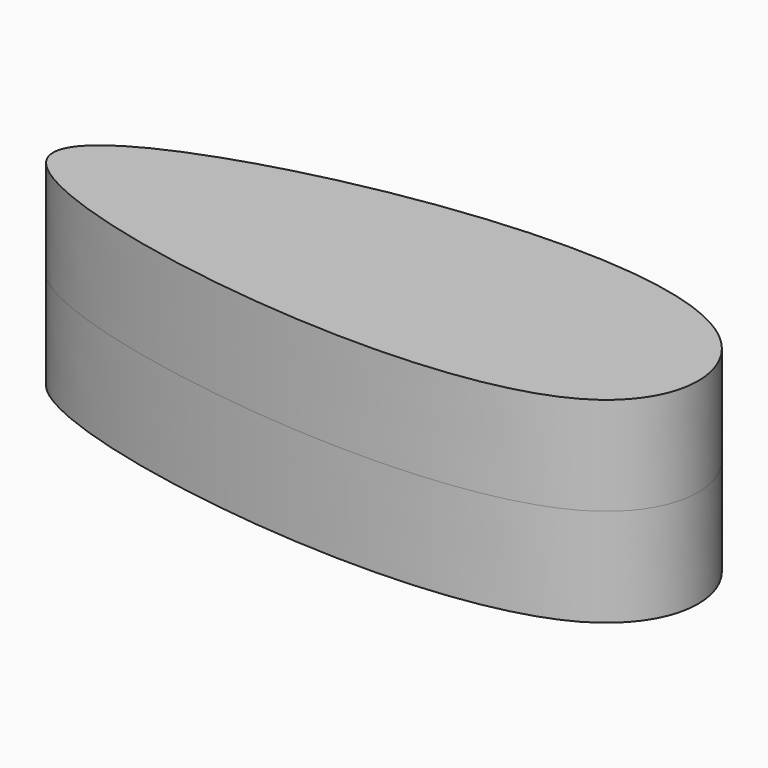
from build123d import *

# Parameters (mm, degrees)
F1_DEPTH = 12.7
F2_DEPTH = 25.4


with BuildPart() as f1:
    # F0 (on Top) → F1 (new body)
    with BuildSketch(Plane.XY):
        with BuildLine():
            add(Edge.make_bspline(
                [(0, 9.1168445497), (-10.1094677871, 5.5481767391), (-29.4806938939, -7.8869325237), (69.9481975541, -22.8077795131), (70.3730453639, 21.8022398848), (19.2242435893, 15.9030513733), (0, 9.1168445497)],
                knots=[0, 0, 0, 0, 0.1662302202, 0.5078633472, 0.6838953037, 1, 1, 1, 1], degree=3))
        make_face()
    extrude(amount=F1_DEPTH)

    # F0 (on Top) → F2 (join)
    with BuildSketch(Plane.XY):
        with BuildLine():
            add(Edge.make_bspline(
                [(0, 9.1168445497), (-10.1094677871, 5.5481767391), (-29.4806938939, -7.8869325237), (69.9481975541, -22.8077795131), (70.3730453639, 21.8022398848), (19.2242435893, 15.9030513733), (0, 9.1168445497)],
                knots=[0, 0, 0, 0, 0.1662302202, 0.5078633472, 0.6838953037, 1, 1, 1, 1], degree=3))
        make_face()
    extrude(amount=F2_DEPTH)


solid = f1.part
